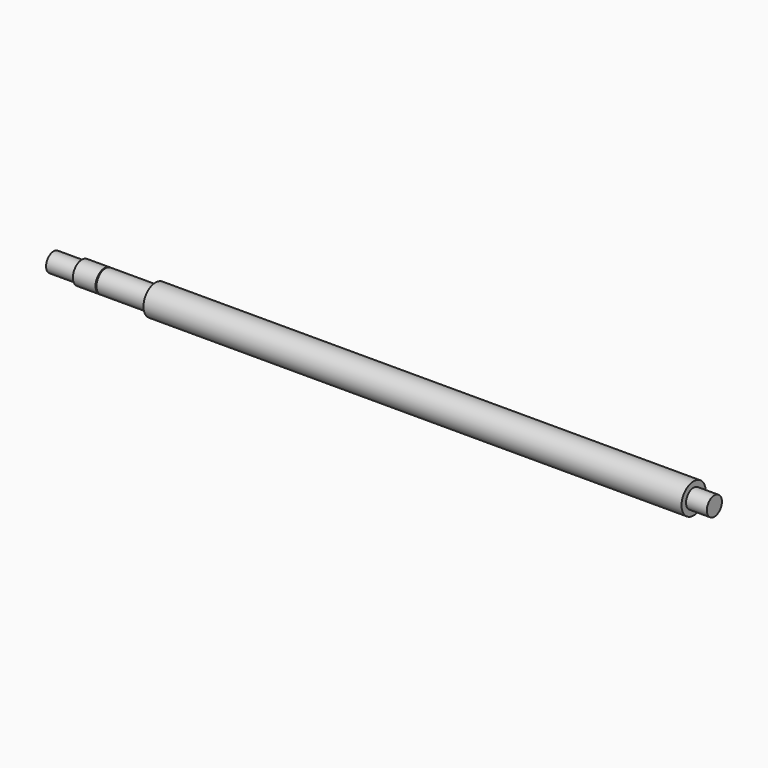
from build123d import *

# Parameters (mm, degrees)
F0_W   = 11
F0_H   = 5
F0_W_2 = 15


with BuildPart() as f1:
    # F0 (on Front) → F1 (revolve)
    with BuildSketch(Plane.XZ):
        Polygon((-142.5, 6), (-142.5, 0), (142.5, 0), (142.5, 5), (142.5, 8), (-142.5, 8), align=None)
        Polygon((-181.5, 0), (-142.5, 0), (-142.5, 6), (-169, 6), (-169, 5.5), (-169.5, 5.5), (-169.5, 6), (-181.5, 6), (-181.5, 5), align=None)
        with Locations((148, 2.5)):
            Rectangle(F0_W, F0_H)
        with Locations((-189, 2.5)):
            Rectangle(F0_W_2, F0_H)
    revolve(axis=Axis((0, 0, 0), (1, 0, 0)))


solid = f1.part
